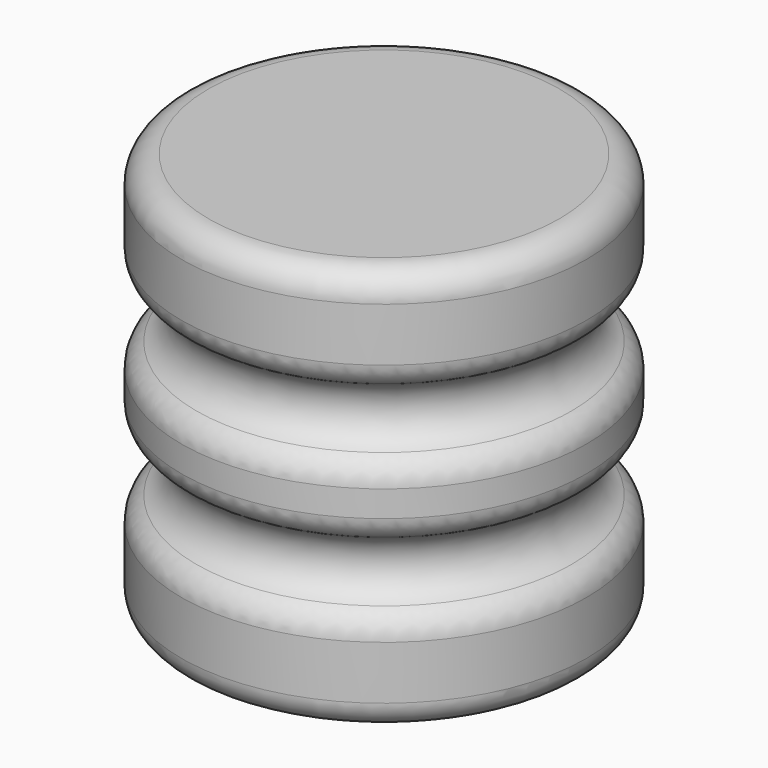
from build123d import *

# Parameters (mm, degrees)
F2_R = 5.08


with BuildPart() as f1:
    # F0 (on Front) → F1 (revolve)
    with BuildSketch(Plane.XZ):
        with BuildLine():
            Line((-38.1, 0), (0, 0))
            Line((0, 0), (0, 19.05))
            ThreePointArc((0, 19.05), (-6.35, 25.4), (0, 31.75))
            Line((0, 31.75), (0, 44.45))
            ThreePointArc((0, 44.45), (-6.35, 50.8), (0, 57.15))
            Line((0, 57.15), (0, 76.2))
            Line((0, 76.2), (-38.1, 76.2))
            Line((-38.1, 76.2), (-38.1, 0))
        make_face()
    revolve(axis=Axis((-38.1, 0, 38.1), (0, 0, 1)))

    # F2
    f2_edges = [f1.edges().sort_by_distance(p)[0] for p in [
        (-76.2, 0, 57.15),
        (-76.2, 0, 76.2),
        (-76.2, 0, 44.45),
        (-76.2, 0, 31.75),
        (-76.2, 0, 19.05),
        (-76.2, 0, 0),
    ]]
    fillet(f2_edges, radius=F2_R)


solid = f1.part
